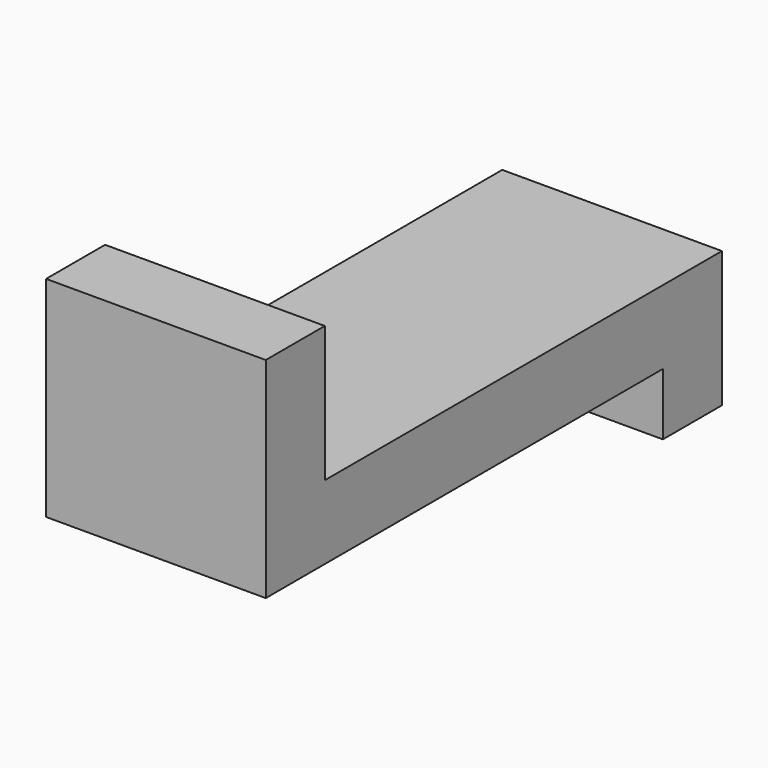
from build123d import *

# Parameters (mm, degrees)
F0_W     = 22.352
F0_H     = 41.148
F0_H_2   = 22.352
F0_W_2   = 128.016
F0_H_3   = 18.796
F1_DEPTH = 66.548


with BuildPart() as f1:
    # F0 (on Right) → F1 (new body)
    with BuildSketch(Plane.YZ):
        with Locations((-75.184, 31.75)):
            Rectangle(F0_W, F0_H)
        with Locations((-75.184, 0)):
            Rectangle(F0_W, F0_H_2)
        Rectangle(F0_W_2, F0_H_2)
        with Locations((75.184, 0)):
            Rectangle(F0_W, F0_H_2)
        with Locations((75.184, -20.574)):
            Rectangle(F0_W, F0_H_3)
    extrude(amount=F1_DEPTH)


solid = f1.part
